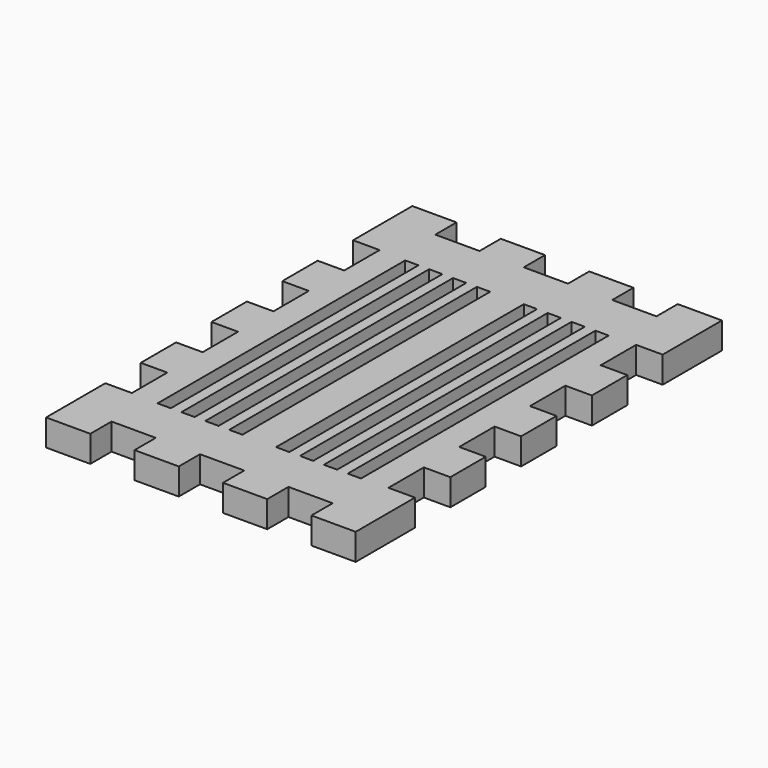
from build123d import *

# Parameters (mm, degrees)
F0_W     = 3.81
F0_H     = 88.9
F1_DEPTH = 7.62


with BuildPart() as f1:
    # F0 (on Top) → F1 (new body)
    with BuildSketch(Plane.XY):
        Polygon((12.7, 0), (0, 0), (0, -21.2725), (7.62, -21.2725), (7.62, -33.9725), (0, -33.9725), (0, -46.6725), (7.62, -46.6725), (7.62, -59.3725), (0, -59.3725), (0, -72.0725), (7.62, -72.0725), (7.62, -84.7725), (0, -84.7725), (0, -97.4725), (7.62, -97.4725), (7.62, -110.1725), (0, -110.1725), (0, -131.445), (12.7, -131.445), (12.7, -123.825), (25.4, -123.825), (25.4, -131.445), (38.1, -131.445), (38.1, -123.825), (50.8, -123.825), (50.8, -131.445), (63.5, -131.445), (63.5, -123.825), (76.2, -123.825), (76.2, -131.445), (88.9, -131.445), (88.9, -110.1725), (81.28, -110.1725), (81.28, -97.4725), (88.9, -97.4725), (88.9, -84.7725), (81.28, -84.7725), (81.28, -72.0725), (88.9, -72.0725), (88.9, -59.3725), (81.28, -59.3725), (81.28, -46.6725), (88.9, -46.6725), (88.9, -33.9725), (81.28, -33.9725), (81.28, -21.2725), (88.9, -21.2725), (88.9, 0), (76.2, 0), (76.2, -7.62), (63.5, -7.62), (63.5, 0), (50.8, 0), (50.8, -7.62), (38.1, -7.62), (38.1, 0), (25.4, 0), (25.4, -7.62), (12.7, -7.62), align=None)
        with Locations((17.145, -66.04)):
            Rectangle(F0_W, F0_H, mode=Mode.SUBTRACT)
        with Locations((24.003, -66.04)):
            Rectangle(F0_W, F0_H, mode=Mode.SUBTRACT)
        with Locations((30.861, -66.04)):
            Rectangle(F0_W, F0_H, mode=Mode.SUBTRACT)
        with Locations((37.719, -66.04)):
            Rectangle(F0_W, F0_H, mode=Mode.SUBTRACT)
        with Locations((51.181, -66.04)):
            Rectangle(F0_W, F0_H, mode=Mode.SUBTRACT)
        with Locations((58.039, -66.04)):
            Rectangle(F0_W, F0_H, mode=Mode.SUBTRACT)
        with Locations((64.897, -66.04)):
            Rectangle(F0_W, F0_H, mode=Mode.SUBTRACT)
        with Locations((71.755, -66.04)):
            Rectangle(F0_W, F0_H, mode=Mode.SUBTRACT)
    extrude(amount=F1_DEPTH)


solid = f1.part
